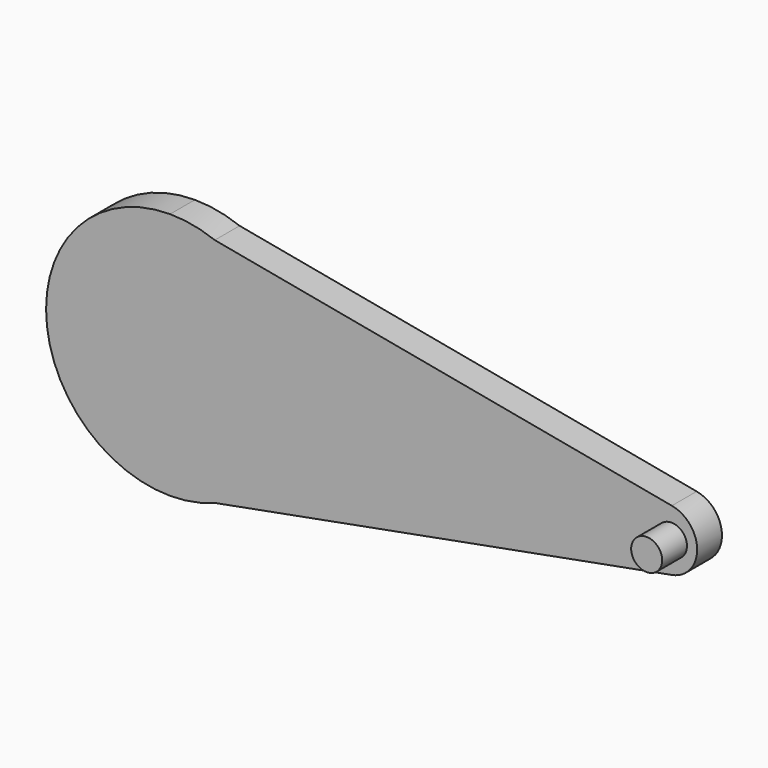
from build123d import *

# Parameters (mm, degrees)
F1_DEPTH = 3.175
F2_R     = 1.5875
F3_DEPTH = 3.175


with BuildPart() as f1:
    # F0 (on Front) → F1 (new body)
    with BuildSketch(Plane.XZ):
        with BuildLine():
            Line((0, 12.7), (4.576113, 11.846906))
            ThreePointArc((4.576113, 11.846906), (2.327476, 12.484905), (0, 12.7))
        make_face()
        with BuildLine():
            Line((51.381869, 3.121226), (4.576113, 11.846906))
            Line((4.576113, 11.846906), (0, 12.7))
            ThreePointArc((0, 12.7), (-12.7, 0), (0, -12.7))
            Line((0, -12.7), (4.576113, -11.846906))
            Line((4.576113, -11.846906), (51.381869, -3.121226))
            ThreePointArc((51.381869, -3.121226), (53.975, 0), (51.381869, 3.121226))
        make_face()
        with BuildLine():
            Line((4.576113, -11.846906), (0, -12.7))
            ThreePointArc((0, -12.7), (2.327476, -12.484905), (4.576113, -11.846906))
        make_face()
    extrude(amount=F1_DEPTH)

    # F2 (on face) → F3 (join)
    with BuildSketch(Plane.XZ.offset(3.175)):
        with Locations((51.342945, 0)):
            Circle(F2_R)
    extrude(amount=F3_DEPTH)


solid = f1.part
